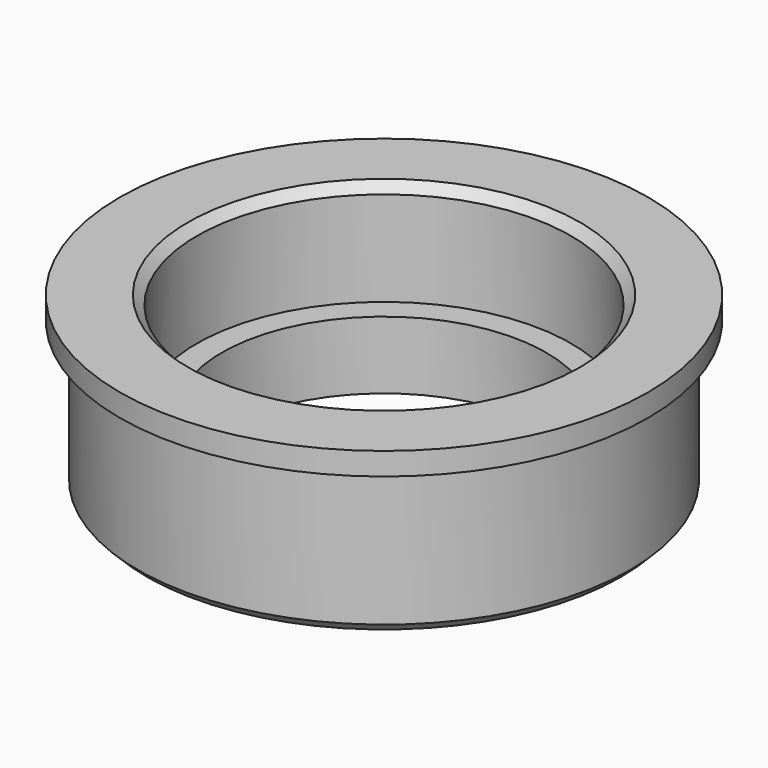
from build123d import *

# Parameters (mm, degrees)
F0_R     = 27.3
F1_DEPTH = 19
F2_R     = 20.7625
F3_DEPTH = 11.5
F4_R     = 18
F5_DEPTH = 7.501
F6_R     = 29.3
F6_R_2   = 27.3
F7_DEPTH = 2.5
F8_SIZE  = 1


with BuildPart() as f1:
    # F0 (on Top) → F1 (new body)
    with BuildSketch(Plane.XY):
        Circle(F0_R)
    extrude(amount=F1_DEPTH)

    # F2 (on face) → F3 (cut)
    with BuildSketch(Plane.XY.offset(19)):
        Circle(F2_R)
    extrude(amount=-F3_DEPTH, mode=Mode.SUBTRACT)

    # F4 (on face) → F5 (cut, through all)
    with BuildSketch(Plane.XY.offset(7.5)):
        Circle(F4_R)
    extrude(amount=-F5_DEPTH, mode=Mode.SUBTRACT)

    # F6 (on face) → F7 (join)
    with BuildSketch(Plane.XY.offset(19)):
        Circle(F6_R)
        Circle(F6_R_2, mode=Mode.SUBTRACT)
    extrude(amount=-F7_DEPTH)

    # F8
    f8_edges = [f1.edges().sort_by_distance(p)[0] for p in [
        (-27.3, 0, 0),
        (-20.7625, 0, 19),
    ]]
    chamfer(f8_edges, length=F8_SIZE)


solid = f1.part
